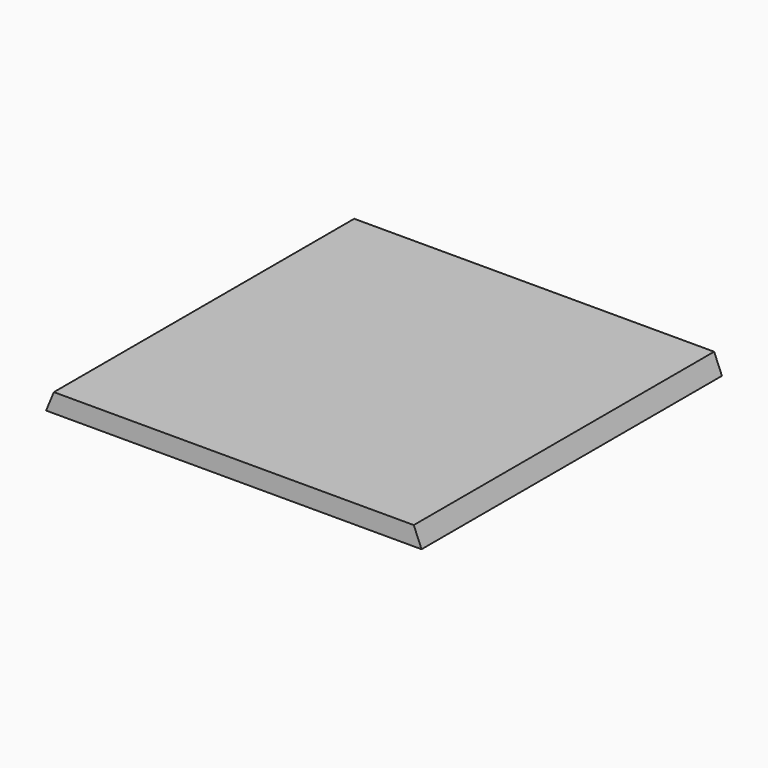
from build123d import *

# Parameters (mm, degrees)
SKETCH_W        = 100
SKETCH_H        = 100
PAD_DEPTH       = 5
POCKET_DEPTH    = 100
POCKET001_DEPTH = 100


with BuildPart() as part:
    # Sketch → Pad (new body)
    with BuildSketch(Plane.XY):
        Rectangle(SKETCH_W, SKETCH_H)
    extrude(amount=PAD_DEPTH)

    # Sketch001 (on Face1 of Pad) → Pocket (cut)
    with BuildSketch(Plane.XZ.offset(50)):
        Polygon((-50, 0), (-47.928932, 5), (-50, 5), align=None)
    extrude(amount=-POCKET_DEPTH, mode=Mode.SUBTRACT)

    # Sketch002 (on Face1 of Pocket) → Pocket001 (cut)
    with BuildSketch(Plane.XZ.offset(50)):
        Polygon((50, 0), (47.928932, 5), (50, 5), align=None)
    extrude(amount=-POCKET001_DEPTH, mode=Mode.SUBTRACT)


solid = part.part
